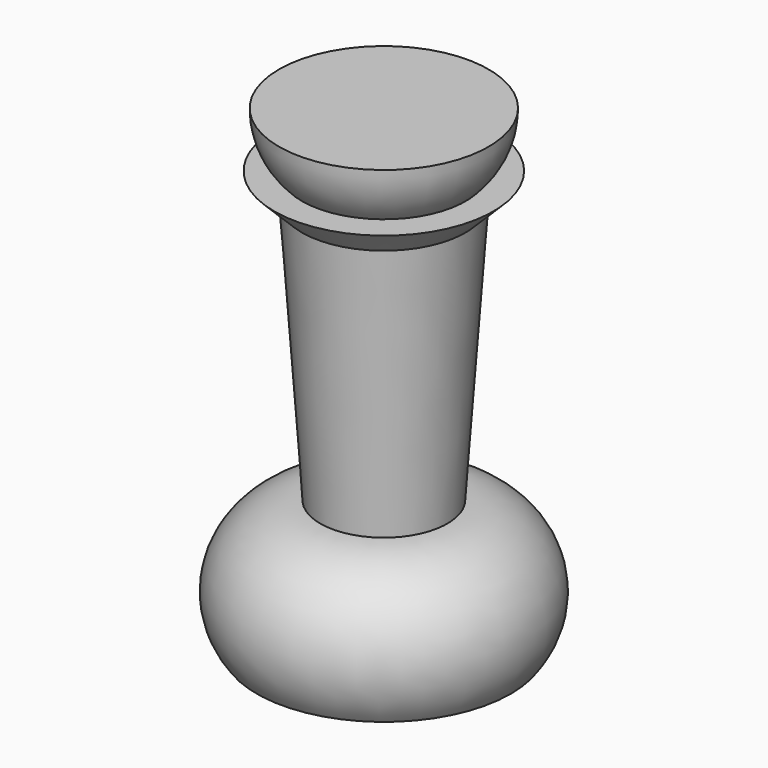
from build123d import *


with BuildPart() as f1:
    # F0 (on Front) → F1 (revolve)
    with BuildSketch(Plane.XZ):
        with BuildLine():
            Line((-13, -33.916283), (0, -33.916283))
            Line((0, -33.916283), (0, 8.912144))
            Line((0, 8.912144), (0, 14.568998))
            Line((0, 14.568998), (-10.717142, 14.568998))
            ThreePointArc((-10.717142, 14.568998), (-10.108178, 11.507531), (-8.373996, 8.912144))
            Line((-8.373996, 8.912144), (-11.202423, 8.912144))
            Line((-11.202423, 8.912144), (-8.373996, 6.083717))
            Line((-8.373996, 6.083717), (-6.5, -20.715673))
            ThreePointArc((-6.5, -20.715673), (-13.857073, -25.293649), (-13, -33.916283))
        make_face()
    revolve(axis=Axis((0, 0, -0.784819), (0, 0, 1)))


solid = f1.part
